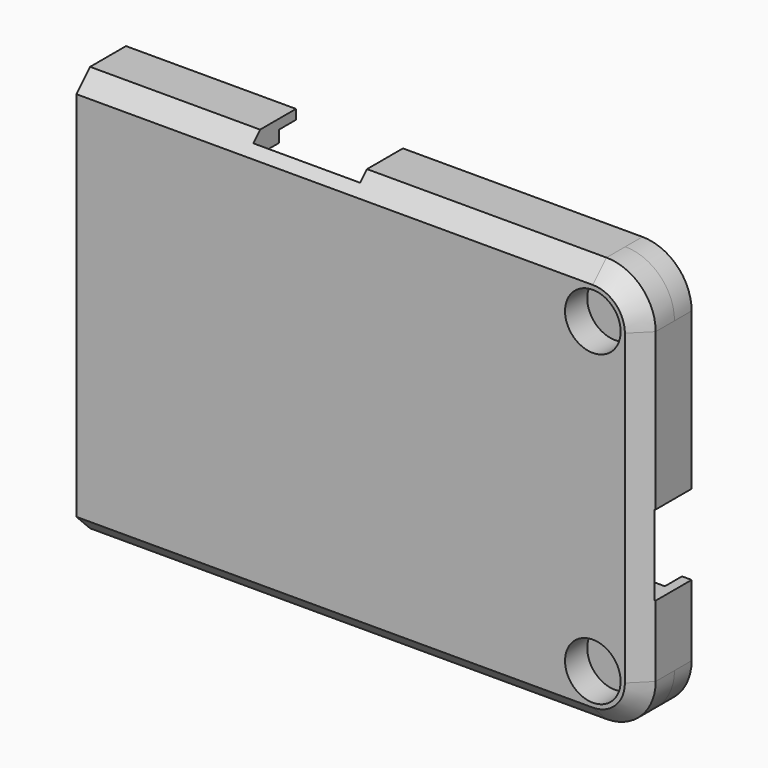
from build123d import *

# Parameters (mm, degrees)
SKETCH037_W       = 7.5
SKETCH037_H       = 7.5
EXTRUDE045_DEPTH  = 10
SKETCH036_W       = 10
SKETCH036_H       = 9
EXTRUDE044_DEPTH  = 10
CYLINDER001_R     = 2
CYLINDER001_DEPTH = 10
SKETCH032_R       = 2.6
EXTRUDE043_DEPTH  = 0.8
EXTRUDE055_DEPTH  = 3
EXTRUDE056_DEPTH  = 0.8
EXTRUDE038_DEPTH  = 2


with BuildPart() as extrude045:
    # Sketch037 → Extrude045 (new body)
    with BuildSketch(Plane.YZ.offset(35)):
        with Locations((0, 8)):
            Rectangle(SKETCH037_W, SKETCH037_H)
    extrude(amount=EXTRUDE045_DEPTH)


with BuildPart() as extrude045_1:
    # Extrude045 placement: moved
    add(extrude045.part.moved(Location((-9.5, 0, 0))))


with BuildPart() as extrude044:
    # Sketch036 → Extrude044 (new body)
    with BuildSketch(Plane.XY.offset(40)):
        Rectangle(SKETCH036_W, SKETCH036_H)
    extrude(amount=EXTRUDE044_DEPTH)


with BuildPart() as extrude044_1:
    # Extrude044 placement: moved
    add(extrude044.part.moved(Location((0, 0, -15.5))))


with BuildPart() as common_sub:
    # Cylinder001 → Cylinder001 (new body)
    with BuildSketch(Plane(origin=(-92.5, 0, 12), x_dir=(0, 0, 1), z_dir=(-1, 0, 0))):
        Circle(CYLINDER001_R)
    extrude(amount=CYLINDER001_DEPTH)

    # Fusion033: union Extrude045, Extrude044
    add(extrude045_1.part)
    add(extrude044_1.part)


with BuildPart() as sweep_body:
    # Sweep: sweep along a path in Sketch034
    with BuildLine(Plane.XZ.offset(10)) as sweep_path:
        Line((32, 11.999174), (32, 26.4))
        ThreePointArc((32, 26.4), (30.652691, 29.652691), (27.4, 31))
        Line((27.4, 31), (-60.9, 31))
    # Sketch033 → Sweep (sweep)
    with BuildSketch(Plane.YZ):
        Polygon((-5.3, 29.4), (-3.7, 31), (-3.7, 32), (-6, 32), (-6, 29.4), align=None)
    sweep(path=sweep_path.line)


with BuildPart() as fusion:
    # Sketch032 → Extrude043 (new body)
    with BuildSketch(Plane.XZ.offset(10)):
        with Locations((27.4, 26.4)):
            Circle(SKETCH032_R)
    extrude(amount=EXTRUDE043_DEPTH)


with BuildPart() as fusion_1:
    # Extrude043 placement: moved
    add(fusion.part.moved(Location((0, 5.5, 0))))

    # Fusion: union Sweep body
    add(sweep_body.part)


with BuildPart() as screw_hole_bottom002:
    # Sketch003 → Revolve (revolve)
    with BuildSketch(Plane.XY):
        Polygon((1.6, 3), (1.6, 2), (0, 2), (0, 1.8), (2.6, 1.8), (2.6, 0), (4.6, 0), (4.6, 3), align=None)
    revolve(axis=Axis((0, 0, 0), (0, 1, 0)))


with BuildPart() as screw_hole_bottom002_1:
    # Body003 placement: moved
    add(screw_hole_bottom002.part.moved(Location((27.4, -4.5, 26.4))))


with BuildPart() as bottom010:
    # Sketch053 → Extrude055 (new body)
    with BuildSketch(Plane.XZ.offset(10)):
        with BuildLine():
            ThreePointArc((32, 26.4), (30.652691, 29.652691), (27.4, 31))
            Line((27.4, 31), (-20.9, 31))
            Line((-20.9, 31), (-20.9, 29))
            Line((-20.9, 29), (27.4, 29))
            ThreePointArc((30, 26.4), (29.238478, 28.238478), (27.4, 29))
            Line((30, 12), (30, 26.4))
            Line((32, 12), (30, 12))
            Line((32, 26.4), (32, 12))
        make_face()
    extrude(amount=EXTRUDE055_DEPTH)


with BuildPart() as bottom010_1:
    # Extrude055 placement: moved
    add(bottom010.part.moved(Location((0, 8.5, 0))))


with BuildPart() as bottom011:
    # Sketch052 → Extrude056 (new body)
    with BuildSketch(Plane.XZ.offset(10)):
        with BuildLine():
            ThreePointArc((32, 26.399909), (30.652691, 29.6526), (27.4, 30.999909))
            Line((27.4, 30.999909), (-20.9, 30.999909))
            Line((-20.9, 30.999909), (-20.9, 11.999909))
            Line((-20.9, 11.999909), (32, 11.999909))
            Line((32, 26.399909), (32, 11.999909))
        make_face()
    extrude(amount=EXTRUDE056_DEPTH)


with BuildPart() as bottom011_1:
    # Extrude056 placement: moved
    add(bottom011.part.moved(Location((0, 5.5, 0))))


with BuildPart() as bottom:
    # Sketch030 → Extrude038 (new body)
    with BuildSketch(Plane.XZ.offset(10)):
        with BuildLine():
            ThreePointArc((32, 26.4), (30.652691, 29.652691), (27.4, 31))
            Line((27.4, 31), (-20.9, 31))
            Line((-20.9, 31), (-20.9, 30.1))
            Line((-20.9, 30.1), (27.4, 30.1))
            ThreePointArc((31.1, 26.4), (30.016295, 29.016295), (27.4, 30.1))
            Line((31.1, 12), (31.1, 26.4))
            Line((32, 12), (31.1, 12))
            Line((32, 26.4), (32, 12))
        make_face()
    extrude(amount=EXTRUDE038_DEPTH)


with BuildPart() as bottom_1:
    # Extrude038 placement: moved
    add(bottom.part.moved(Location((0, 10.5, 0))))

    # Fusion029: union screw hole bottom002, bottom010, bottom011
    add(screw_hole_bottom002_1.part)
    add(bottom010_1.part)
    add(bottom011_1.part)

    # Cut: cut Fusion
    add(fusion_1.part, mode=Mode.SUBTRACT)


with BuildPart() as bottom007:
    # Part__Mirroring004: instance of bottom
    add(bottom_1.part.mirror(Plane(origin=(0, 0, 12), x_dir=(0, 1, 0), z_dir=(0, 0, 1))))

    # Fusion031: union bottom
    add(bottom_1.part)

    # Cut026: cut common sub
    add(common_sub.part, mode=Mode.SUBTRACT)


solid = bottom007.part
